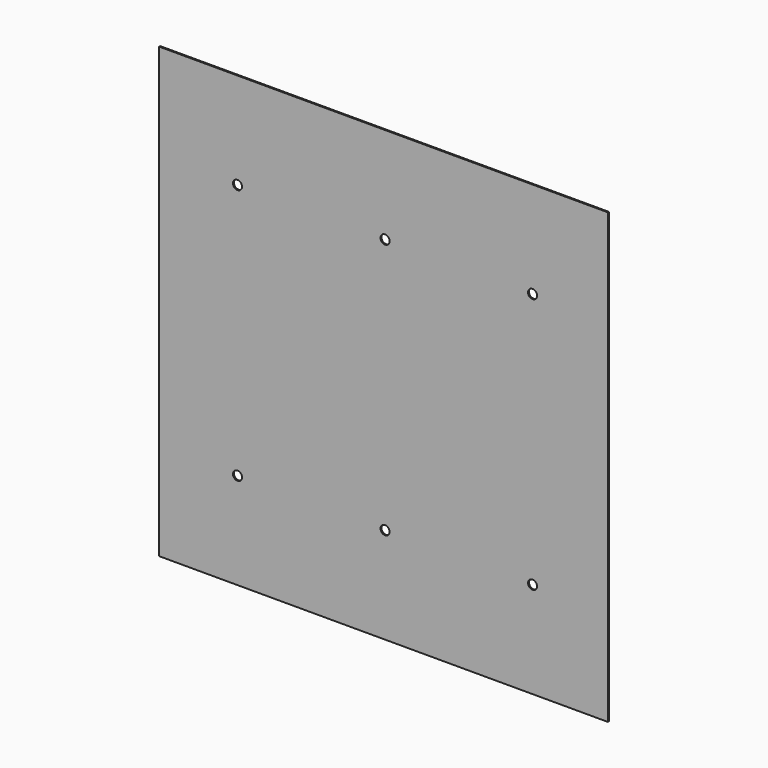
from build123d import *

# Parameters (mm, degrees)
F0_W     = 1490
F0_H     = 1490
F0_R     = 15
F1_DEPTH = 4


with BuildPart() as f1:
    # F0 (on Front) → F1 (new body)
    with BuildSketch(Plane.XZ):
        with Locations((646.610991, 701.628637)):
            Rectangle(F0_W, F0_H)
        with Locations((161.610991, 276.628637)):
            Circle(F0_R, mode=Mode.SUBTRACT)
        with Locations((651.610991, 276.628637)):
            Circle(F0_R, mode=Mode.SUBTRACT)
        with Locations((1141.610991, 276.628637)):
            Circle(F0_R, mode=Mode.SUBTRACT)
        with Locations((161.610991, 1126.628637)):
            Circle(F0_R, mode=Mode.SUBTRACT)
        with Locations((651.610991, 1126.628637)):
            Circle(F0_R, mode=Mode.SUBTRACT)
        with Locations((1141.610991, 1126.628637)):
            Circle(F0_R, mode=Mode.SUBTRACT)
    extrude(amount=F1_DEPTH)


solid = f1.part
